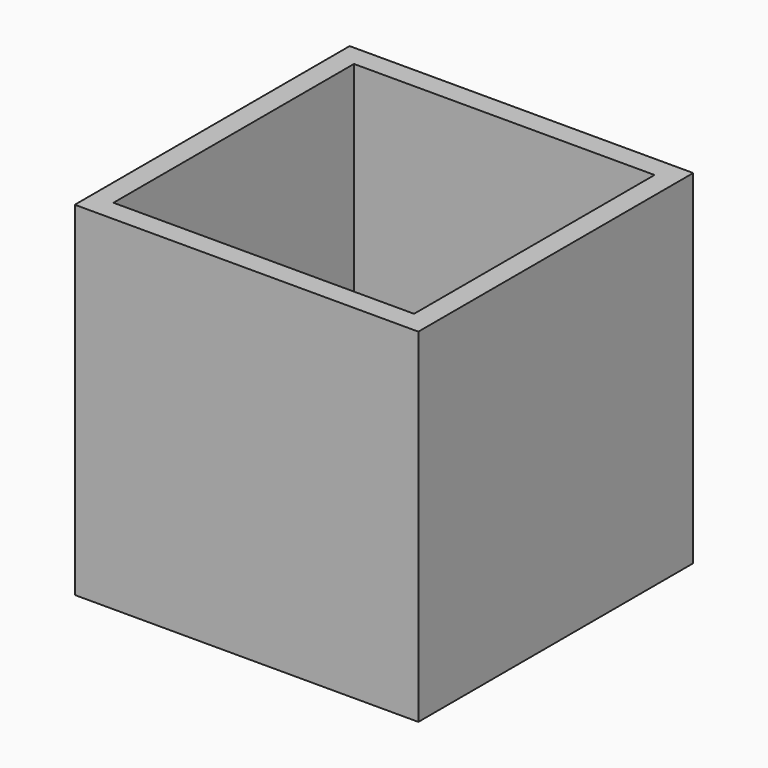
from build123d import *

# Parameters (mm, degrees)
F0_W     = 304.8
F0_H     = 304.8
F1_DEPTH = 152.4
F2_T     = -19.05


with BuildPart() as f1:
    # F0 (on Top) → F1 (new body, symmetric)
    with BuildSketch(Plane.XY):
        Rectangle(F0_W, F0_H)
    extrude(amount=F1_DEPTH, both=True)

    # F2
    f2_openings = [f1.faces().sort_by_distance(p)[0] for p in [
        (0, 0, 152.4),
    ]]
    offset(amount=F2_T, openings=f2_openings)


solid = f1.part
